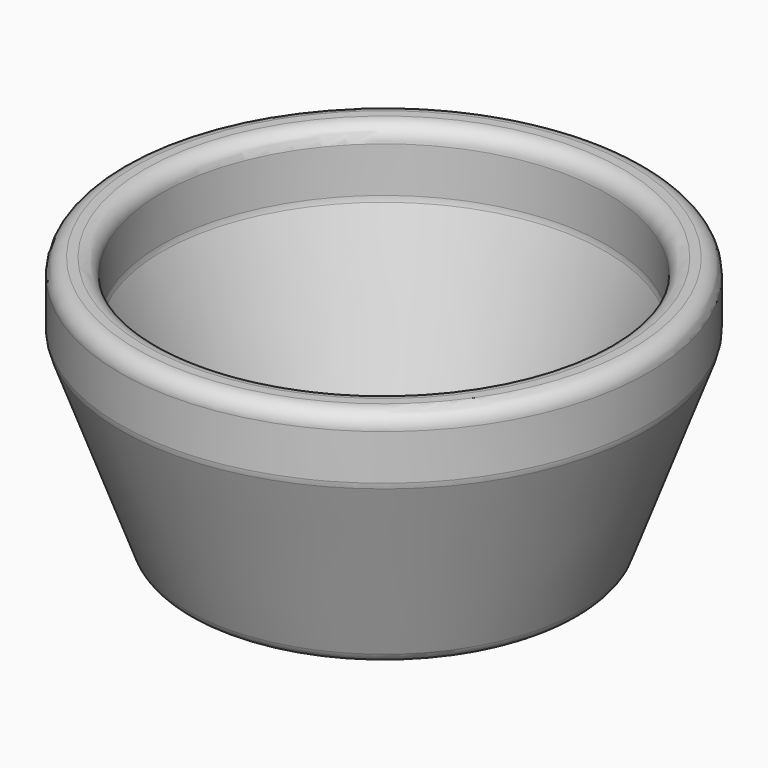
from build123d import *

# Parameters (mm, degrees)
F2_T     = -30.48
F3_DEPTH = 50.8
F4_R     = 12.7


with BuildPart() as f1:
    # F0 (on Front) → F1 (revolve)
    with BuildSketch(Plane.XZ):
        Polygon((-152.4, 0), (0, 0), (0, 152.4), (-208.28, 152.4), align=None)
    revolve(axis=Axis((0, 0, 76.2), (0, 0, -1)))

    # F2
    f2_openings = [f1.faces().sort_by_distance(p)[0] for p in [
        (0, 0, 152.4),
    ]]
    offset(amount=F2_T, openings=f2_openings)

    # F3 (add): a face of the model
    f3_faces = [f1.faces().sort_by_distance(p)[0] for p in [
        (202.3889519846, 0, 152.4),
    ]]
    extrude(f3_faces, amount=F3_DEPTH)

    # F4
    f4_edges = [f1.edges().sort_by_distance(p)[0] for p in [
        (208.28, 0, 203.2),
        (175.81566, 0, 203.2),
        (175.81566, 0, 152.4),
        (208.28, 0, 152.4),
        (152.4, 0, 0),
    ]]
    fillet(f4_edges, radius=F4_R)


solid = f1.part
